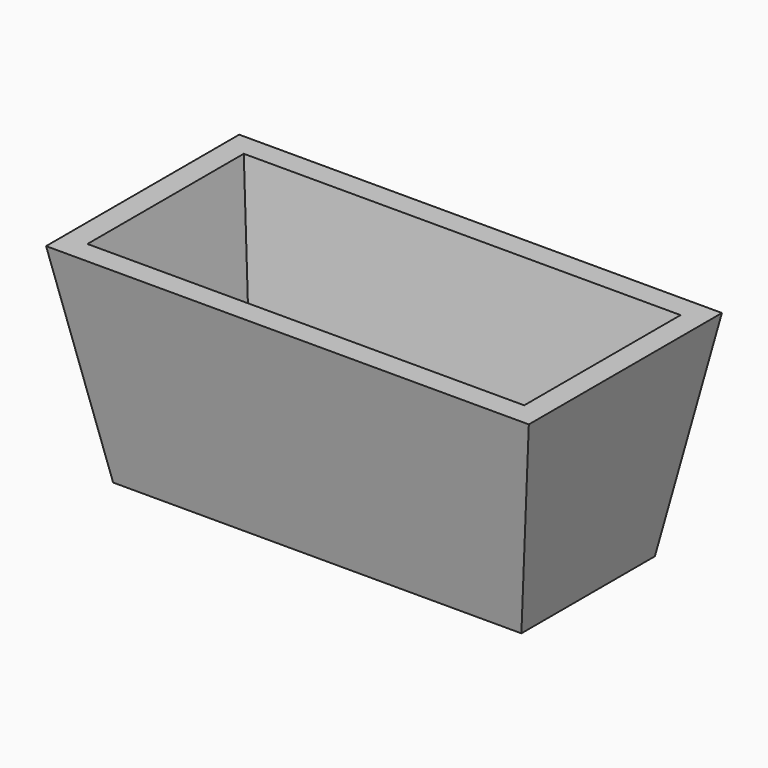
from build123d import *

# Parameters (mm, degrees)
F1_DEPTH = 50.8
F3_DEPTH = 101.601
F6_T     = -9.525


with BuildPart() as f1:
    # F0 (on Front) → F1 (new body)
    with BuildSketch(Plane.XZ):
        Polygon((0, 88.9), (0, 0), (85.924531, 0), (101.6, 88.9), align=None)
    extrude(amount=F1_DEPTH)

    # F2 (on Right) → F3 (cut, through all)
    with BuildSketch(Plane.YZ):
        Polygon((-35.124531, 0), (-50.8, 88.9), (-50.8, 0), align=None)
    extrude(amount=F3_DEPTH, mode=Mode.SUBTRACT)

    # F4: F1 across plane


with BuildPart() as f1_1:
    add(f1.part)
    add(f1.part.mirror(Plane.XZ))

    # F5: F1 across plane


with BuildPart() as f1_2:
    add(f1_1.part)
    add(f1_1.part.mirror(Plane.YZ))

    # F6
    f6_openings = [f1_2.faces().sort_by_distance(p)[0] for p in [
        (0, 0, 88.9),
    ]]
    offset(amount=F6_T, openings=f6_openings)


solid = f1_2.part
